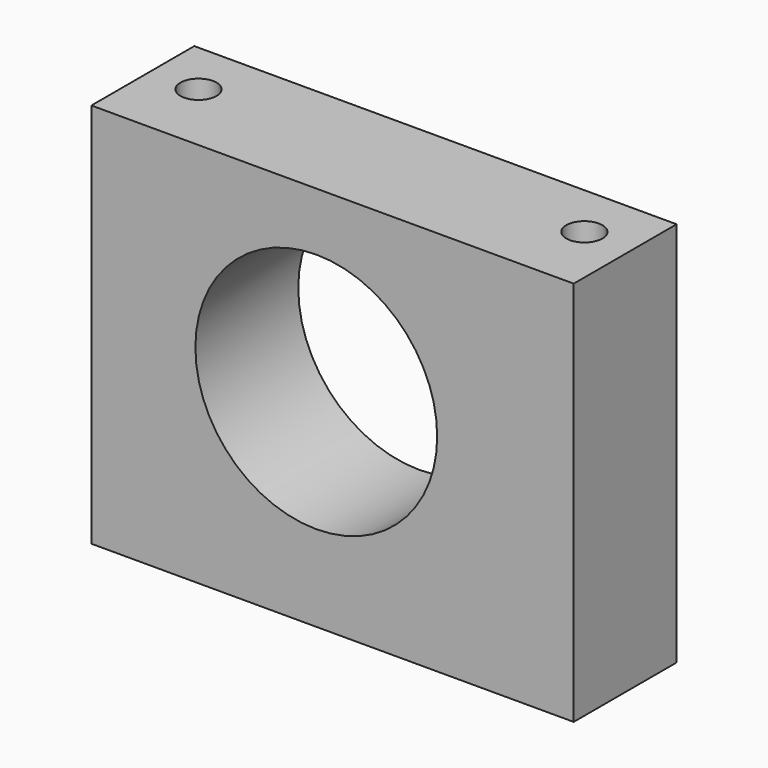
from build123d import *

# Parameters (mm, degrees)
F0_W     = 95.25
F0_H     = 76.2
F1_DEPTH = 25.4
F3_D     = 47.752
F5_D     = 7.1374


with BuildPart() as f1:
    # F0 (on Front) → F1 (new body)
    with BuildSketch(Plane.XZ):
        with Locations((3.213696, -2.745525)):
            Rectangle(F0_W, F0_H)
    extrude(amount=F1_DEPTH)

    # F3 (through all)
    with Locations(Plane.XZ.offset(25.4)):
        with Locations((0, 0)):
            Hole(F3_D / 2)

    # F5 (through all)
    with Locations(Plane.XY.offset(35.354475)):
        with Locations((-34.886304, -10.860083), (41.313696, -10.860083)):
            Hole(F5_D / 2)


solid = f1.part
